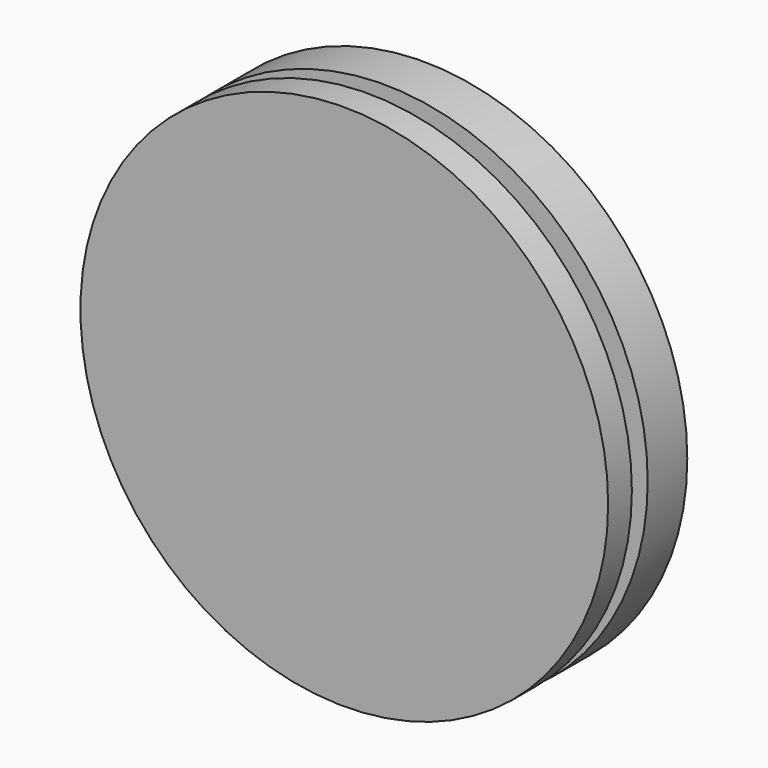
from build123d import *

# Parameters (mm, degrees)
F0_R     = 101.6
F1_DEPTH = 19.05
F2_R     = 101.6
F3_DEPTH = 7.62


with BuildPart() as f1:
    # F0 (on Front) → F1 (new body, symmetric)
    with BuildSketch(Plane.XZ):
        Circle(F0_R)
    extrude(amount=F1_DEPTH, both=True)

    # F2 (on Front) → F3 (cut)
    with BuildSketch(Plane.XZ):
        Circle(F2_R)
    extrude(amount=F3_DEPTH, mode=Mode.SUBTRACT)


solid = f1.part
